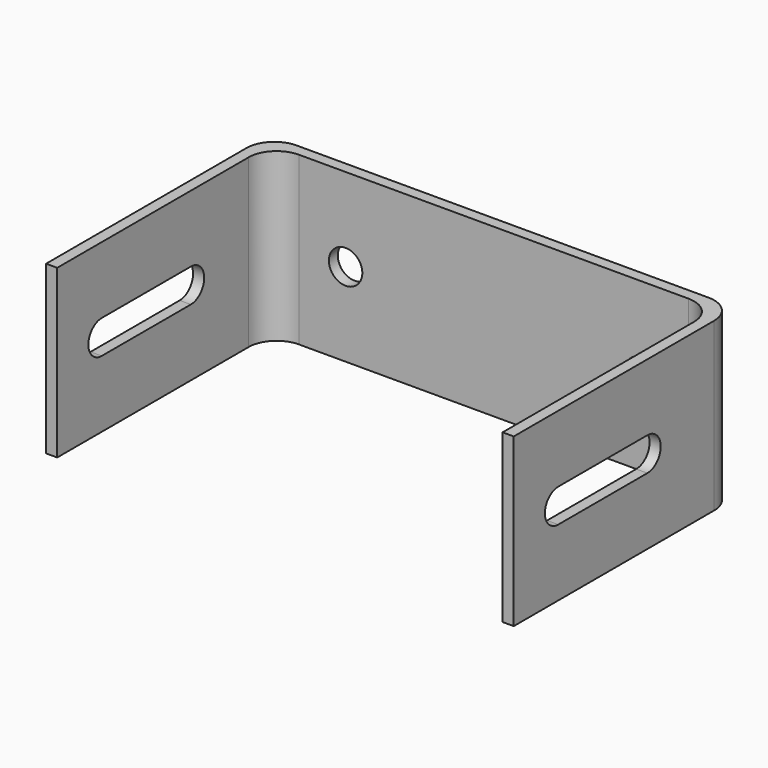
from build123d import *

# Parameters (mm, degrees)
F1_DEPTH = 30
F3_DEPTH = 84.001
F4_R     = 3
F5_DEPTH = 50.001


with BuildPart() as f1:
    # F0 (on Top) → F1 (new body)
    with BuildSketch(Plane.XY):
        with BuildLine():
            Line((0, 45), (0, 0))
            Line((0, 0), (2, 0))
            Line((2, 0), (2, 43))
            ThreePointArc((2, 43), (3.464466, 46.535534), (7, 48))
            Line((7, 48), (77, 48))
            ThreePointArc((77, 48), (80.535534, 46.535534), (82, 43))
            Line((82, 43), (82, 0))
            Line((82, 0), (84, 0))
            Line((84, 0), (84, 45))
            ThreePointArc((84, 45), (82.535534, 48.535534), (79, 50))
            Line((79, 50), (5, 50))
            ThreePointArc((5, 50), (1.464466, 48.535534), (0, 45))
        make_face()
    extrude(amount=F1_DEPTH)

    # F2 (on face) → F3 (cut, through all)
    with BuildSketch(Plane(origin=(0, 0, 0), x_dir=(0, -1, 0), z_dir=(-1, 0, 0))):
        with BuildLine():
            Line((-10, 18), (-30, 18))
            ThreePointArc((-30, 18), (-33, 15), (-30, 12))
            Line((-30, 12), (-10, 12))
            ThreePointArc((-10, 12), (-7, 15), (-10, 18))
        make_face()
    extrude(amount=-F3_DEPTH, mode=Mode.SUBTRACT)

    # F4 (on face) → F5 (cut, through all)
    with BuildSketch(Plane(origin=(0, 50, 0), x_dir=(-1, 0, 0), z_dir=(0, 1, 0))):
        with Locations((-68.6, 15)):
            Circle(F4_R)
        with Locations((-15.4, 15)):
            Circle(F4_R)
    extrude(amount=-F5_DEPTH, mode=Mode.SUBTRACT)


solid = f1.part
